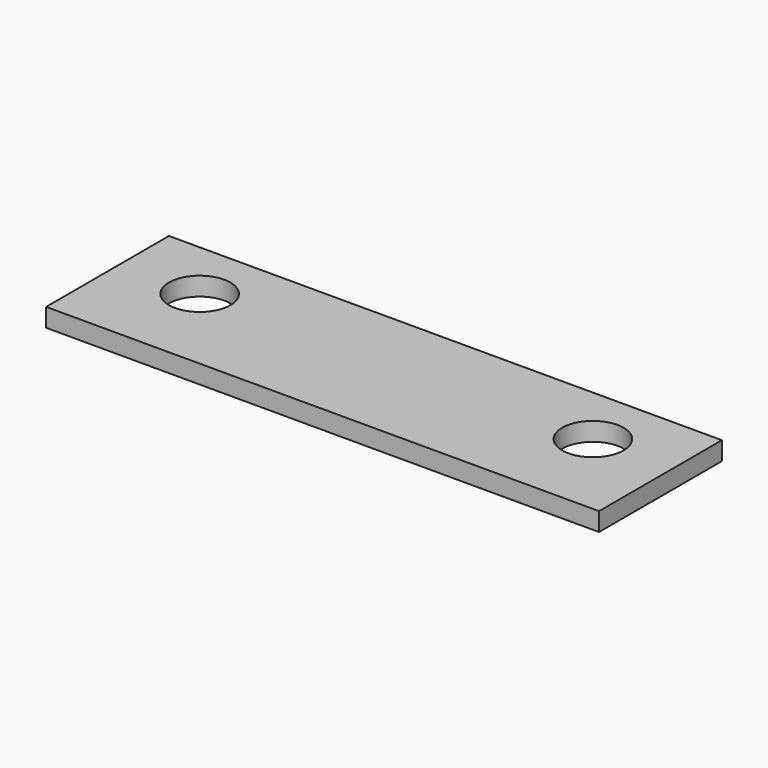
from build123d import *

# Parameters (mm, degrees)
BOX_W        = 180
BOX_H        = 50
BOX_DEPTH    = 6
SKETCH_R     = 10
POCKET_DEPTH = 6.001


with BuildPart() as part:
    # Box → Box (new body)
    with BuildSketch(Plane.XY):
        with Locations((90, 25)):
            Rectangle(BOX_W, BOX_H)
    extrude(amount=BOX_DEPTH)

    # Sketch → Pocket (cut, through all)
    with BuildSketch(Plane.XY.offset(6)):
        with Locations((26, 30)):
            Circle(SKETCH_R)
        with Locations((154, 30)):
            Circle(SKETCH_R)
    extrude(amount=-POCKET_DEPTH, mode=Mode.SUBTRACT)


solid = part.part
